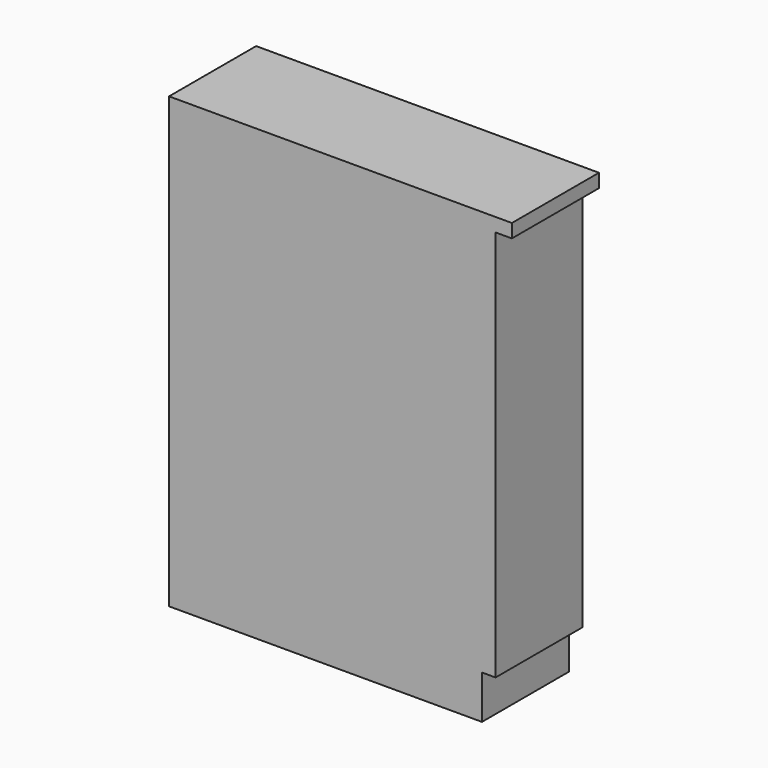
from build123d import *

# Parameters (mm, degrees)
F0_W     = 600
F0_H     = 200
F1_DEPTH = 800
F2_W     = 200
F2_H     = 80
F3_DEPTH = 25
F4_W     = 630
F4_H     = 200
F5_DEPTH = 25


with BuildPart() as f1:
    # F0 (on Top) → F1 (new body)
    with BuildSketch(Plane.XY):
        Rectangle(F0_W, F0_H)
    extrude(amount=F1_DEPTH)

    # F2 (on face) → F3 (cut)
    with BuildSketch(Plane.YZ.offset(300)):
        with Locations((0, 40)):
            Rectangle(F2_W, F2_H)
    extrude(amount=-F3_DEPTH, mode=Mode.SUBTRACT)

    # F4 (on face) → F5 (join)
    with BuildSketch(Plane.XY.offset(800)):
        with Locations((15, 0)):
            Rectangle(F4_W, F4_H)
    extrude(amount=F5_DEPTH)


solid = f1.part
